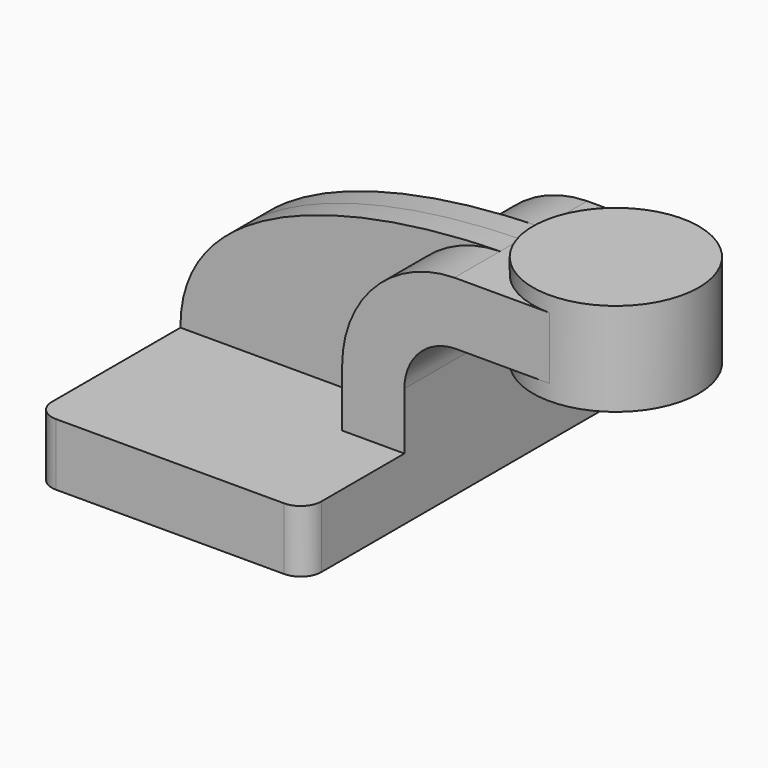
from build123d import *

# Parameters (mm, degrees)
F0_W     = 63.5
F0_H     = 19.05
F0_W_2   = 19.05
F1_DEPTH = 63.5
F0_W_3   = 25.4
F2_DEPTH = 25.4
F3_DEPTH = 7.9375
F5_R     = 6.35


with BuildPart() as f1:
    # F0 (on Front) → F1 (new body, symmetric)
    with BuildSketch(Plane.XZ):
        with Locations((-9.525, 0)):
            Rectangle(F0_W, F0_H)
        with Locations((31.75, 0)):
            Rectangle(F0_W_2, F0_H)
    extrude(amount=F1_DEPTH, both=True)

    # F0 (on Front) → F2 (join, symmetric)
    with BuildSketch(Plane.XZ):
        with BuildLine():
            Line((22.225, 9.525), (41.275, 9.525))
            Line((41.275, 9.525), (41.275, 27.004391))
            ThreePointArc((41.275, 27.004391), (45.79645, 38.1), (56.785241, 42.8752))
            Line((56.785241, 42.8752), (60.325, 42.8752))
            Line((60.325, 42.8752), (60.325, 61.9252))
            Line((60.325, 61.9252), (56.608955, 61.9252))
            ThreePointArc((56.608955, 61.9252), (32.263743, 51.508061), (22.225, 27.004391))
            Line((22.225, 27.004391), (22.225, 9.525))
        make_face()
        with Locations((73.025, 52.4002)):
            Rectangle(F0_W_3, F0_H)
    extrude(amount=F2_DEPTH, both=True)

    # F0 (on Front) → F3 (join, symmetric)
    with BuildSketch(Plane.XZ):
        with BuildLine():
            Line((-41.275, 9.525), (22.225, 9.525))
            Line((22.225, 9.525), (22.225, 27.004391))
            ThreePointArc((22.225, 27.004391), (32.263743, 51.508061), (56.608955, 61.9252))
            add(Edge.make_bspline(
                [(-41.275, 9.525), (-41.526487, 49.406126), (16.378682, 61.477449), (56.608955, 61.9252)],
                knots=[0, 0, 0, 0, 111.027247, 111.027247, 111.027247, 111.027247], degree=3))
        make_face()
    extrude(amount=F3_DEPTH, both=True)

    # F0 (on Front) → F4 (revolve)
    with BuildSketch(Plane.XZ):
        Polygon((85.725, 61.9252), (85.725, 42.8752), (85.725, 38.1), (111.125, 38.1), (111.125, 66.675), (85.725, 66.675), align=None)
    revolve(axis=Axis((85.725, 0, 52.3875), (0, 0, 1)))

    # F5
    f5_edges = [f1.edges().sort_by_distance(p)[0] for p in [
        (41.275, -63.5, 0),
        (-41.275, -63.5, 0),
        (41.275, 63.5, 0),
        (-41.275, 63.5, 0),
    ]]
    fillet(f5_edges, radius=F5_R)


solid = f1.part
